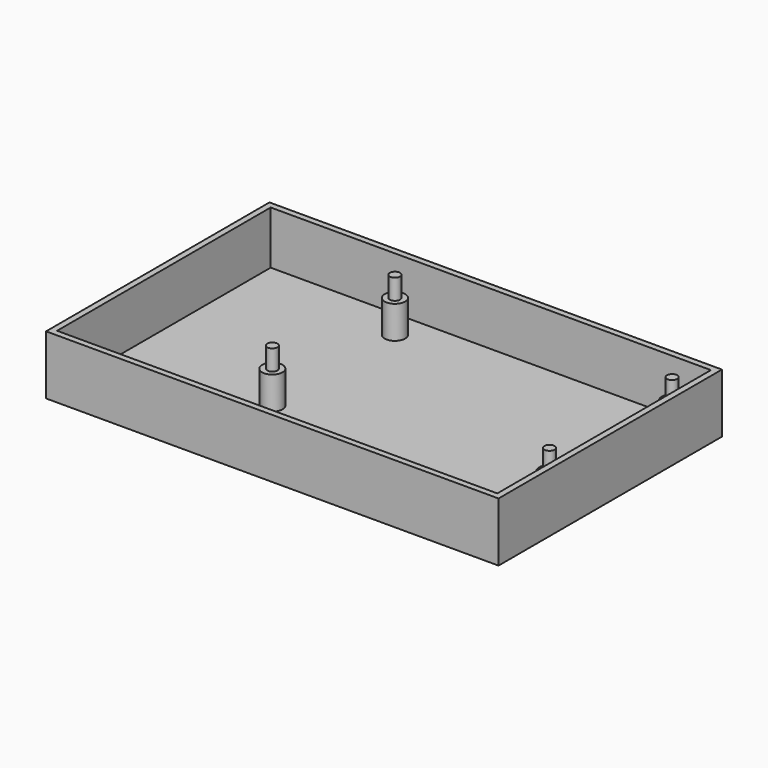
from build123d import *

# Parameters (mm, degrees)
F0_W     = 111
F0_H     = 68.5
F0_W_2   = 108
F0_H_2   = 65.5
F0_R     = 2.5
F0_R_2   = 1.25
F1_DEPTH = 1.5
F2_DEPTH = 13
F3_DEPTH = 8


with BuildPart() as f1:
    # F0 (on Top) → F1 (new body)
    with BuildSketch(Plane.XY):
        with Locations((-16, 1.25)):
            Rectangle(F0_W, F0_H)
        with Locations((-16, 1.25)):
            Rectangle(F0_W_2, F0_H_2, mode=Mode.SUBTRACT)
        with Locations((-16, 1.25)):
            Rectangle(F0_W_2, F0_H_2)
        with Locations((-34, -10.5)):
            Circle(F0_R, mode=Mode.SUBTRACT)
        with Locations((34, -10.5)):
            Circle(F0_R, mode=Mode.SUBTRACT)
        with Locations((-34, 27.1)):
            Circle(F0_R, mode=Mode.SUBTRACT)
        with Locations((34, 27.1)):
            Circle(F0_R, mode=Mode.SUBTRACT)
        with Locations((-34, -10.5)):
            Circle(F0_R)
        with Locations((-34, -10.5)):
            Circle(F0_R_2, mode=Mode.SUBTRACT)
        with Locations((-34, -10.5)):
            Circle(F0_R_2)
        with Locations((34, -10.5)):
            Circle(F0_R)
        with Locations((34, -10.5)):
            Circle(F0_R_2, mode=Mode.SUBTRACT)
        with Locations((34, -10.5)):
            Circle(F0_R_2)
        with Locations((34, 27.1)):
            Circle(F0_R)
        with Locations((34, 27.1)):
            Circle(F0_R_2, mode=Mode.SUBTRACT)
        with Locations((34, 27.1)):
            Circle(F0_R_2)
        with Locations((-34, 27.1)):
            Circle(F0_R)
        with Locations((-34, 27.1)):
            Circle(F0_R_2, mode=Mode.SUBTRACT)
        with Locations((-34, 27.1)):
            Circle(F0_R_2)
    extrude(amount=-F1_DEPTH)

    # F0 (on Top) → F2 (join)
    with BuildSketch(Plane.XY):
        with Locations((-16, 1.25)):
            Rectangle(F0_W, F0_H)
        with Locations((-16, 1.25)):
            Rectangle(F0_W_2, F0_H_2, mode=Mode.SUBTRACT)
        with Locations((-34, 27.1)):
            Circle(F0_R_2)
        with Locations((34, 27.1)):
            Circle(F0_R_2)
        with Locations((34, -10.5)):
            Circle(F0_R_2)
        with Locations((-34, -10.5)):
            Circle(F0_R_2)
    extrude(amount=F2_DEPTH)

    # F0 (on Top) → F3 (join)
    with BuildSketch(Plane.XY):
        with Locations((-34, 27.1)):
            Circle(F0_R)
        with Locations((-34, 27.1)):
            Circle(F0_R_2, mode=Mode.SUBTRACT)
        with Locations((-34, -10.5)):
            Circle(F0_R)
        with Locations((-34, -10.5)):
            Circle(F0_R_2, mode=Mode.SUBTRACT)
        with Locations((34, 27.1)):
            Circle(F0_R)
        with Locations((34, 27.1)):
            Circle(F0_R_2, mode=Mode.SUBTRACT)
        with Locations((34, -10.5)):
            Circle(F0_R)
        with Locations((34, -10.5)):
            Circle(F0_R_2, mode=Mode.SUBTRACT)
    extrude(amount=F3_DEPTH)


solid = f1.part
